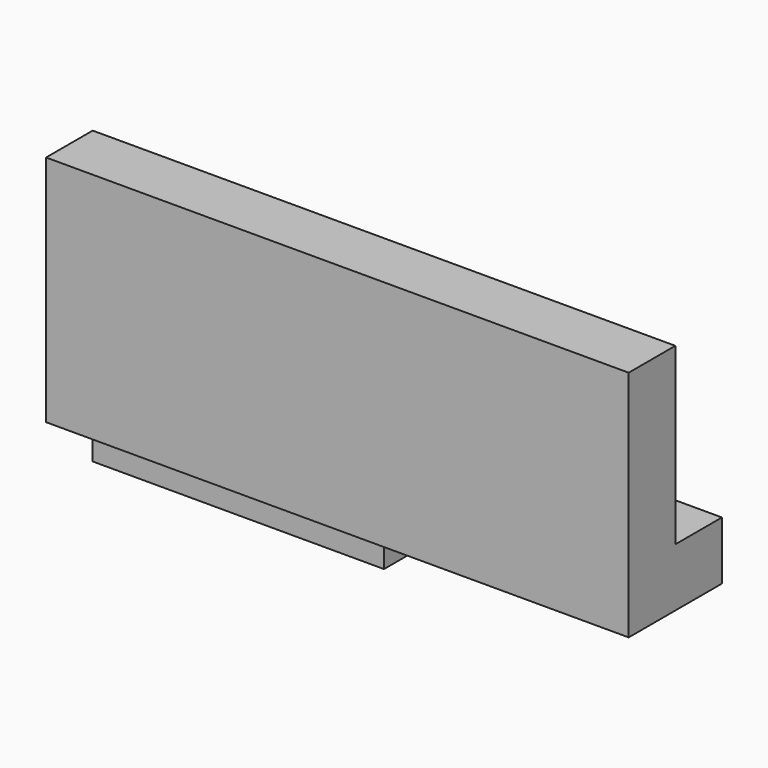
from build123d import *

# Parameters (mm, degrees)
F0_W     = 63.5
F0_H     = 25.4
F1_DEPTH = 6.35
F2_W     = 63.5
F2_H     = 6.35
F3_DEPTH = 6.35
F4_W     = 63.5
F4_H     = 6.35
F5_DEPTH = 6.35
F6_R     = 1.905
F7_DEPTH = 63.501
F8_W     = 31.75
F8_H     = 6.35
F9_DEPTH = 25.4


with BuildPart() as f1:
    # F0 (on Front) → F1 (new body)
    with BuildSketch(Plane.XZ):
        with Locations((-31.75, 12.7)):
            Rectangle(F0_W, F0_H)
    extrude(amount=F1_DEPTH)

    # F2 (on Front) → F3 (join)
    with BuildSketch(Plane.XZ):
        with Locations((-31.75, 3.175)):
            Rectangle(F2_W, F2_H)
    extrude(amount=-F3_DEPTH)

    # F4 (on face) → F5 (join)
    with BuildSketch(Plane(origin=(0, 0, 0), x_dir=(1, 0, 0), z_dir=(0, 0, -1))):
        with Locations((-31.75, -3.175)):
            Rectangle(F4_W, F4_H)
    extrude(amount=F5_DEPTH)

    # F6 (on face) → F7 (cut, through all)
    with BuildSketch(Plane(origin=(-63.5, 0, 0), x_dir=(0, -1, 0), z_dir=(-1, 0, 0))):
        with Locations((-3.175, -3.175)):
            Circle(F6_R)
    extrude(amount=-F7_DEPTH, mode=Mode.SUBTRACT)

    # F8 (on face) → F9 (cut)
    with BuildSketch(Plane.XZ):
        with Locations((-15.875, -3.175)):
            Rectangle(F8_W, F8_H)
    extrude(amount=-F9_DEPTH, mode=Mode.SUBTRACT)


solid = f1.part
